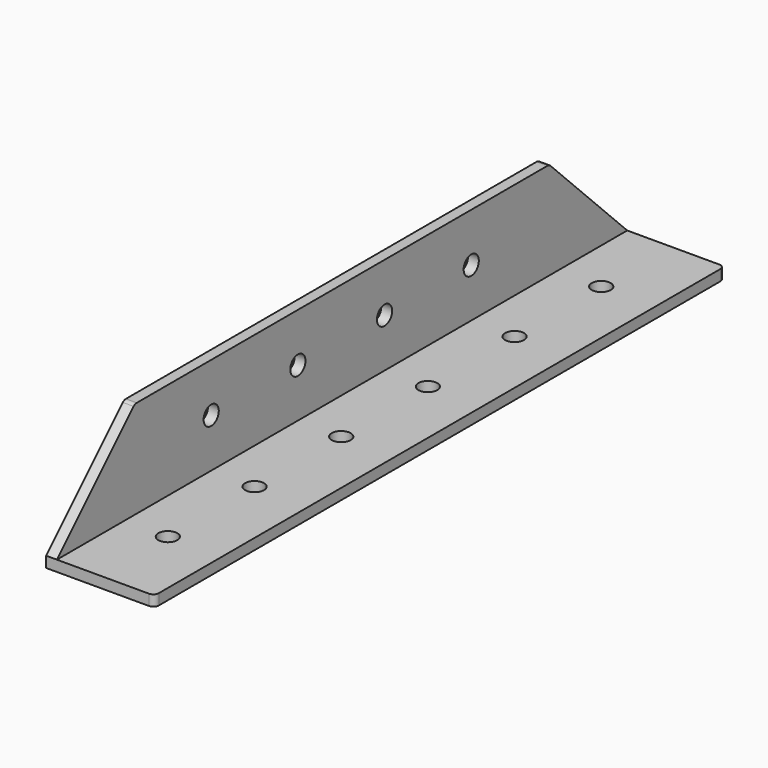
from build123d import *

# Parameters (mm, degrees)
F1_DEPTH = 658
F3_D     = 17.5
F5_D     = 17.5
F7_SIZE  = 90
F8_R     = 5


with BuildPart() as f1:
    # F0 (on Front) → F1 (new body)
    with BuildSketch(Plane.XZ):
        Polygon((0, 100), (0, 0), (100, 0), (100, 10), (10, 10), (10, 100), align=None)
    extrude(amount=F1_DEPTH)

    # F3 (through all)
    with Locations(Plane.YZ.offset(10)):
        with Locations((-180, 55), (-280, 55), (-380, 55), (-480, 55)):
            Hole(F3_D / 2)

    # F5 (through all)
    with Locations(Plane(origin=(0, 0, 0), x_dir=(1, 0, 0), z_dir=(0, 0, -1))):
        with Locations((50, 580), (50, 480), (50, 380), (50, 280), (50, 180), (50, 80)):
            Hole(F5_D / 2)

    # F7
    f7_edges = [f1.edges().sort_by_distance(p)[0] for p in [
        (5, -658, 100),
        (5, 0, 100),
    ]]
    chamfer(f7_edges, length=F7_SIZE)

    # F8
    f8_edges = [f1.edges().sort_by_distance(p)[0] for p in [
        (5, -90, 100),
        (100, 0, 5),
        (5, -568, 100),
        (100, -658, 5),
    ]]
    fillet(f8_edges, radius=F8_R)


solid = f1.part
